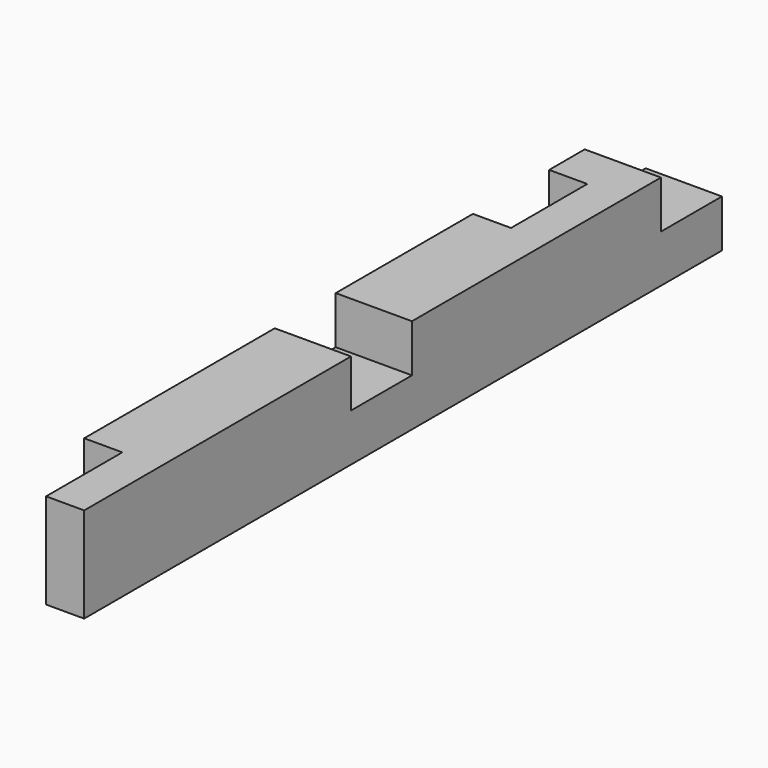
from build123d import *

# Parameters (mm, degrees)
F0_W     = 76.2
F0_H     = 95.25
F1_DEPTH = 796.925
F2_W     = 76.2
F2_H     = 47.625
F3_DEPTH = 76.201
F4_W     = 95.25
F4_H     = 95.25
F5_DEPTH = 38.1
F6_W     = 95.25
F6_H     = 95.25
F7_DEPTH = 38.1


with BuildPart() as f1:
    # F0 (on Front) → F1 (new body)
    with BuildSketch(Plane.XZ):
        with Locations((38.1, 47.625)):
            Rectangle(F0_W, F0_H)
    extrude(amount=F1_DEPTH)

    # F2 (on face) → F3 (cut, through all)
    with BuildSketch(Plane.YZ.offset(76.2)):
        with Locations((-425.45, 71.4375)):
            Rectangle(F2_W, F2_H)
        with Locations((-38.1, 71.4375)):
            Rectangle(F2_W, F2_H)
    extrude(amount=-F3_DEPTH, mode=Mode.SUBTRACT)

    # F4 (on face) → F5 (cut)
    with BuildSketch(Plane(origin=(0, 0, 0), x_dir=(0, -1, 0), z_dir=(-1, 0, 0))):
        with Locations((749.3, 47.625)):
            Rectangle(F4_W, F4_H)
    extrude(amount=-F5_DEPTH, mode=Mode.SUBTRACT)

    # F6 (on face) → F7 (cut)
    with BuildSketch(Plane(origin=(0, 0, 0), x_dir=(0, -1, 0), z_dir=(-1, 0, 0))):
        with Locations((168.275, 47.625)):
            Rectangle(F6_W, F6_H)
    extrude(amount=-F7_DEPTH, mode=Mode.SUBTRACT)


solid = f1.part
